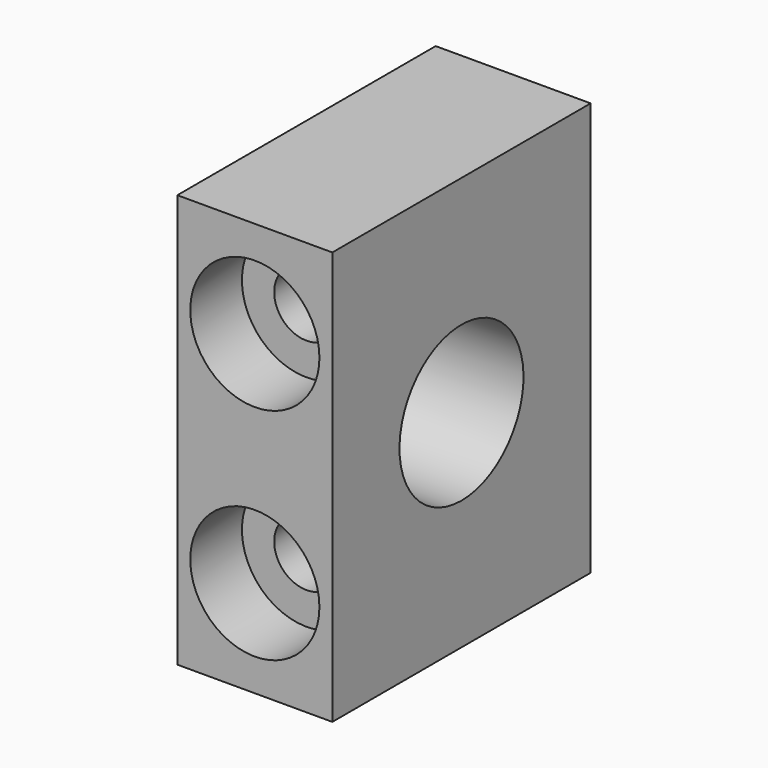
from build123d import *

# Parameters (mm, degrees)
SKETCH_W        = 12
SKETCH_H        = 32
SKETCH_R        = 2.5
PAD_DEPTH       = 25
SKETCH001_R     = 6
POCKET_DEPTH    = 12
SKETCH002_R     = 5
POCKET001_DEPTH = 5


with BuildPart() as part:
    # Sketch → Pad (new body)
    with BuildSketch(Plane.XZ):
        Rectangle(SKETCH_W, SKETCH_H)
        with Locations((0, 8.5)):
            Circle(SKETCH_R, mode=Mode.SUBTRACT)
        with Locations((0, -8.5)):
            Circle(SKETCH_R, mode=Mode.SUBTRACT)
    extrude(amount=PAD_DEPTH)

    # Sketch001 → Pocket (cut)
    with BuildSketch(Plane(origin=(-6, 0, 0), x_dir=(0, 0, -1), z_dir=(-1, 0, 0))):
        with Locations((0, 12.5)):
            Circle(SKETCH001_R)
    extrude(amount=-POCKET_DEPTH, mode=Mode.SUBTRACT)

    # Sketch002 → Pocket001 (cut)
    with BuildSketch(Plane.XZ.offset(25)):
        with Locations((0, 8.5)):
            Circle(SKETCH002_R)
        with Locations((0, -8.5)):
            Circle(SKETCH002_R)
    extrude(amount=-POCKET001_DEPTH, mode=Mode.SUBTRACT)


solid = part.part
